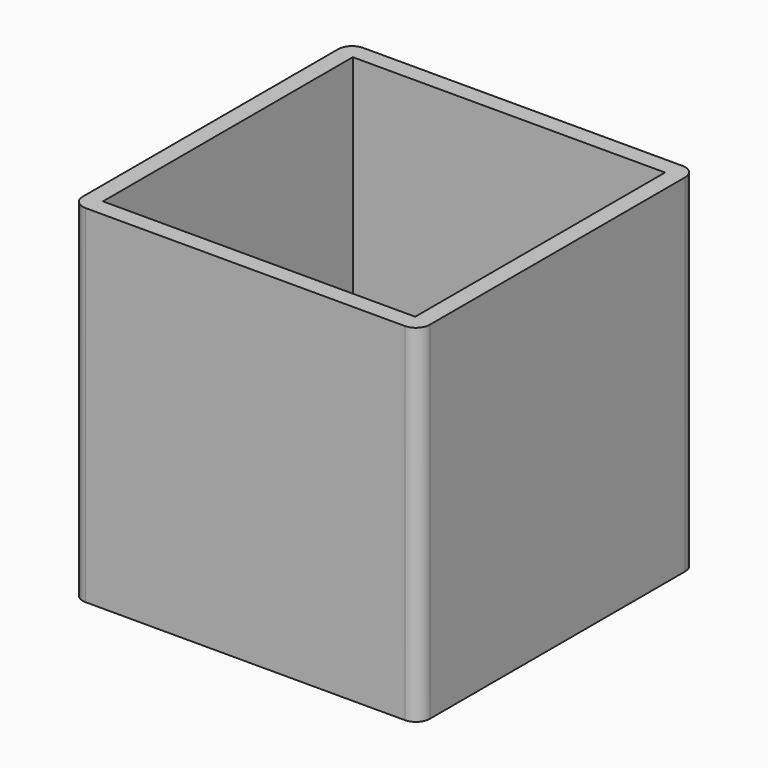
from build123d import *

# Parameters (mm, degrees)
SKETCH_W     = 50
SKETCH_H     = 50
PAD_DEPTH    = 50
SKETCH001_W  = 45
SKETCH001_H  = 45
POCKET_DEPTH = 45
FILLET_R     = 2
FILLET001_R  = 2
FILLET002_R  = 2
FILLET003_R  = 2


with BuildPart() as part:
    # Sketch → Pad (new body)
    with BuildSketch(Plane.XY):
        Rectangle(SKETCH_W, SKETCH_H)
    extrude(amount=PAD_DEPTH)

    # Sketch001 (on Face6 of Pad) → Pocket (cut)
    with BuildSketch(Plane.XY.offset(50)):
        Rectangle(SKETCH001_W, SKETCH001_H)
    extrude(amount=-POCKET_DEPTH, mode=Mode.SUBTRACT)

    # Fillet
    fillet_edges = [part.edges().sort_by_distance(p)[0] for p in [
        (25, -25, 25),
    ]]
    fillet(fillet_edges, radius=FILLET_R)

    # Fillet001
    fillet001_edges = [part.edges().sort_by_distance(p)[0] for p in [
        (-25, -25, 25),
    ]]
    fillet(fillet001_edges, radius=FILLET001_R)

    # Fillet002
    fillet002_edges = [part.edges().sort_by_distance(p)[0] for p in [
        (-25, 25, 25),
    ]]
    fillet(fillet002_edges, radius=FILLET002_R)

    # Fillet003
    fillet003_edges = [part.edges().sort_by_distance(p)[0] for p in [
        (25, 25, 25),
    ]]
    fillet(fillet003_edges, radius=FILLET003_R)


solid = part.part
